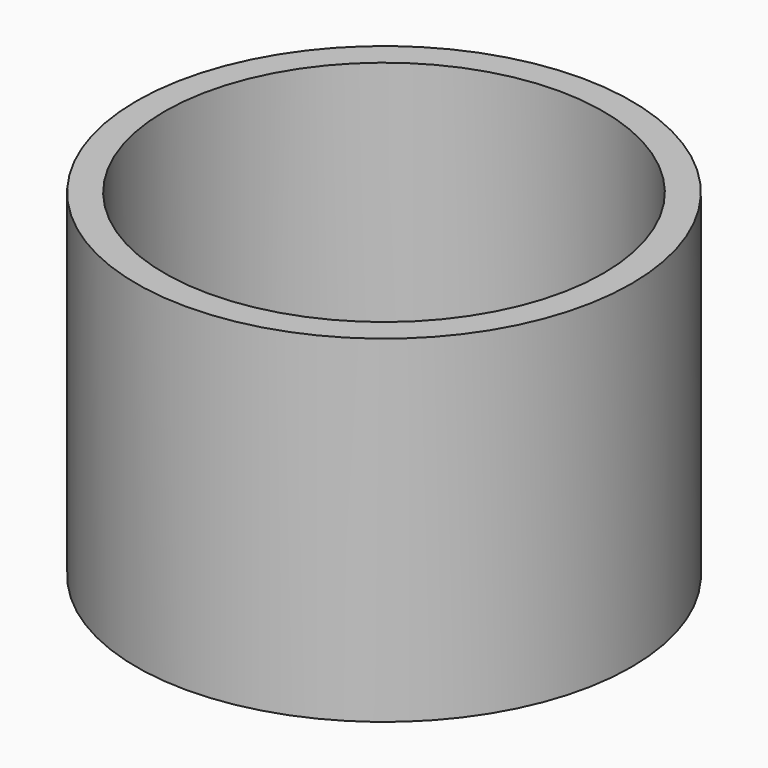
from build123d import *

# Parameters (mm, degrees)
CYLINDER002_R     = 7.8
CYLINDER002_DEPTH = 12
CYLINDER003_R     = 8.8
CYLINDER003_DEPTH = 12


with BuildPart() as cylinder002:
    # Cylinder002 → Cylinder002 (new body)
    with BuildSketch(Plane.XY.offset(1)):
        Circle(CYLINDER002_R)
    extrude(amount=CYLINDER002_DEPTH)


with BuildPart() as cut:
    # Cylinder003 → Cylinder003 (new body)
    with BuildSketch(Plane.XY):
        Circle(CYLINDER003_R)
    extrude(amount=CYLINDER003_DEPTH)

    # Cut: cut Cylinder002
    add(cylinder002.part, mode=Mode.SUBTRACT)


solid = cut.part
